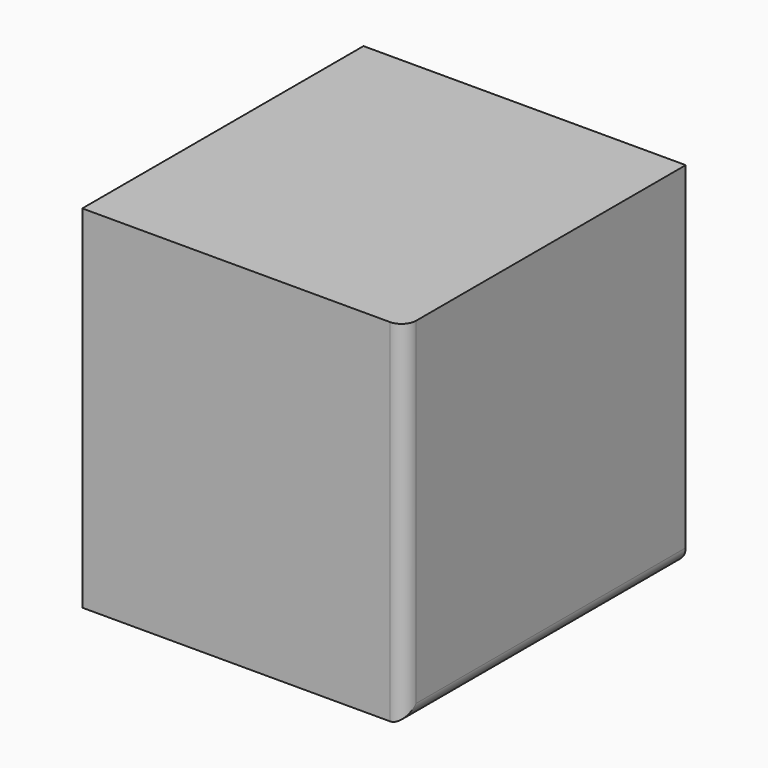
from build123d import *

# Parameters (mm, degrees)
F0_W     = 120
F0_H     = 120
F1_DEPTH = 110
F2_R     = 5


with BuildPart() as f1:
    # F0 (on Right) → F1 (new body)
    with BuildSketch(Plane.YZ):
        Rectangle(F0_W, F0_H)
    extrude(amount=F1_DEPTH)

    # F2
    f2_edges = [f1.edges().sort_by_distance(p)[0] for p in [
        (110, -60, 0),
        (110, 0, -60),
    ]]
    fillet(f2_edges, radius=F2_R)


solid = f1.part
